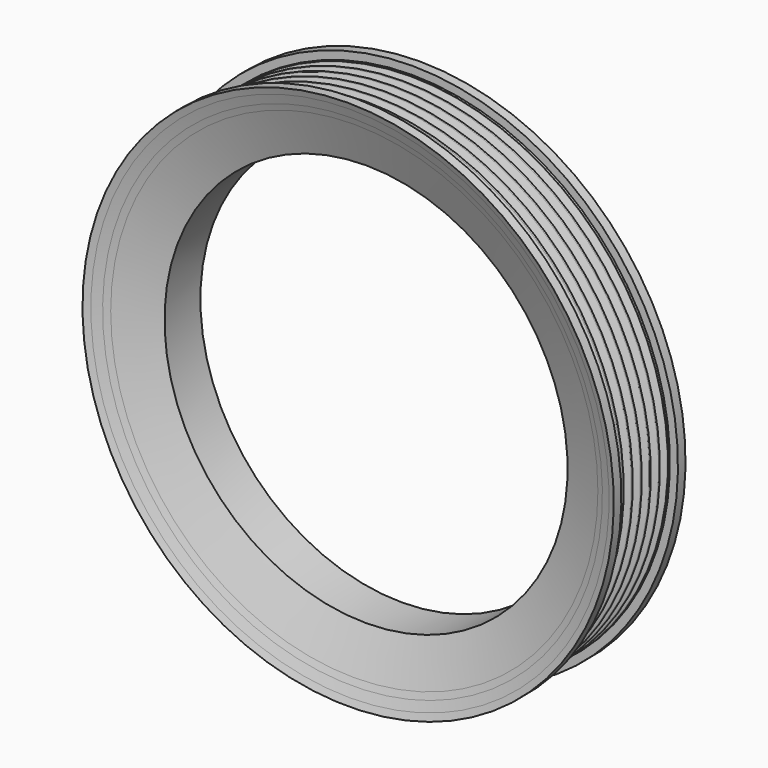
from build123d import *


with BuildPart() as f1:
    # F0 (on Right) → F1 (revolve)
    with BuildSketch(Plane.YZ):
        with BuildLine():
            Line((-7.0612, 63.5), (0, 63.5))
            Line((0, 63.5), (7.0612, 63.5))
            Line((7.0612, 63.5), (11.699697, 76.752849))
            Line((11.699697, 76.752849), (12.3952, 78.74))
            Line((12.3952, 78.74), (13.4112, 81.642857))
            Line((13.4112, 81.642857), (14.133282, 83.705948))
            Line((14.133282, 83.705948), (11.150731, 83.705948))
            Line((11.150731, 83.705948), (11.150731, 81.642857))
            Line((11.150731, 81.642857), (11.150731, 81.165948))
            Line((11.150731, 81.165948), (10.414131, 81.165948))
            Line((10.414131, 81.165948), (10.414131, 80.911948))
            Line((10.414131, 80.911948), (9.369999, 78.043565))
            ThreePointArc((9.369999, 78.043565), (8.90016, 77.714594), (8.430321, 78.043565))
            Line((8.430321, 78.043565), (7.386189, 80.911948))
            Line((7.386189, 80.911948), (7.355059, 80.997467))
            ThreePointArc((7.355059, 80.997467), (7.120128, 81.16196), (6.885197, 80.997467))
            Line((6.885197, 80.997467), (5.809935, 78.043565))
            ThreePointArc((5.809935, 78.043565), (5.340096, 77.714594), (4.870257, 78.043565))
            Line((4.870257, 78.043565), (3.794995, 80.997467))
            ThreePointArc((3.794995, 80.997467), (3.560064, 81.16196), (3.325133, 80.997467))
            Line((3.325133, 80.997467), (2.249871, 78.043565))
            ThreePointArc((2.249871, 78.043565), (1.780032, 77.714594), (1.310193, 78.043565))
            Line((1.310193, 78.043565), (0.234931, 80.997467))
            ThreePointArc((0.234931, 80.997467), (0, 81.16196), (-0.234931, 80.997467))
            Line((-0.234931, 80.997467), (-1.310193, 78.043565))
            ThreePointArc((-1.310193, 78.043565), (-1.780032, 77.714594), (-2.249871, 78.043565))
            Line((-2.249871, 78.043565), (-3.325133, 80.997467))
            ThreePointArc((-3.325133, 80.997467), (-3.560064, 81.16196), (-3.794995, 80.997467))
            Line((-3.794995, 80.997467), (-4.870257, 78.043565))
            ThreePointArc((-4.870257, 78.043565), (-5.340096, 77.714594), (-5.809935, 78.043565))
            Line((-5.809935, 78.043565), (-6.885197, 80.997467))
            ThreePointArc((-6.885197, 80.997467), (-7.120128, 81.16196), (-7.355059, 80.997467))
            Line((-7.355059, 80.997467), (-7.386189, 80.911948))
            Line((-7.386189, 80.911948), (-8.430321, 78.043565))
            ThreePointArc((-8.430321, 78.043565), (-8.90016, 77.714594), (-9.369999, 78.043565))
            Line((-9.369999, 78.043565), (-10.414131, 80.911948))
            Line((-10.414131, 80.911948), (-10.414131, 81.165948))
            Line((-10.414131, 81.165948), (-11.150731, 81.165948))
            Line((-11.150731, 81.165948), (-11.150731, 81.642857))
            Line((-11.150731, 81.642857), (-11.150731, 83.705948))
            Line((-11.150731, 83.705948), (-14.133282, 83.705948))
            Line((-14.133282, 83.705948), (-13.4112, 81.642857))
            Line((-13.4112, 81.642857), (-12.3952, 78.74))
            Line((-12.3952, 78.74), (-11.699697, 76.752849))
            Line((-11.699697, 76.752849), (-7.0612, 63.5))
        make_face()
    revolve(axis=Axis((0, 14.171782, 0), (0, 1, 0)))


solid = f1.part
